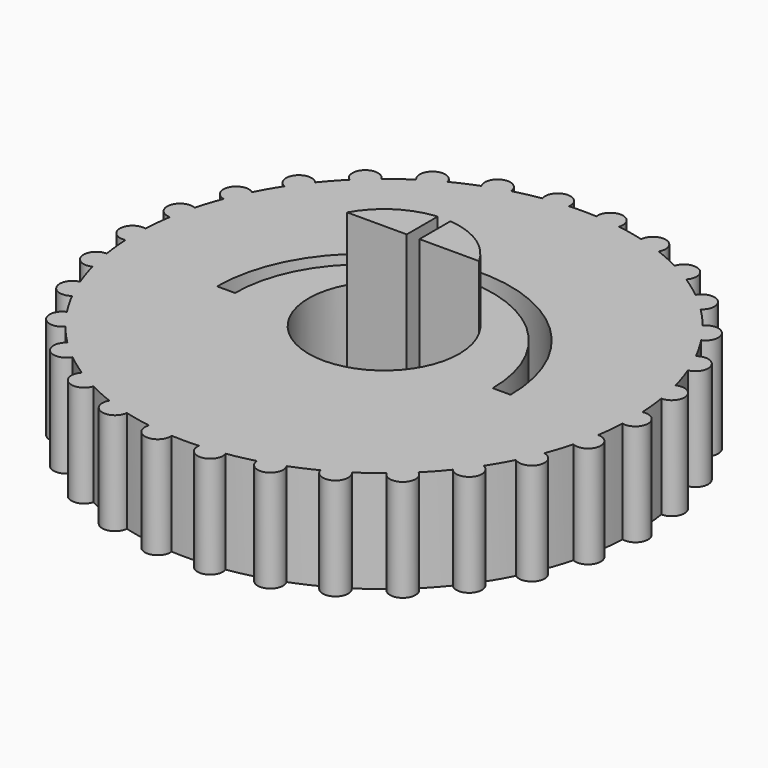
from build123d import *

# Parameters (mm, degrees)
F1_DEPTH      = 4
F3_DEPTH      = 2.5
F3_DEPTH_BACK = 4


with BuildPart() as f1:
    # F0 (on Top) → F1 (new body)
    with BuildSketch(Plane.XY):
        with BuildLine():
            ThreePointArc((-9.7378284576, 0.4870286754), (-10.3509791066, 0), (-9.7378284576, -0.4870286754))
            ThreePointArc((-9.7378284576, -0.4870286754), (-9.6965884798, -1.0191525169), (-9.6262924975, -1.5482224492))
            ThreePointArc((-9.6262924975, -1.5482224492), (-10.1247853783, -2.1520895677), (-9.4237745868, -2.5009943098))
            ThreePointArc((-9.4237745868, -2.5009943098), (-9.2728010339, -3.0129156952), (-9.0940413632, -3.5158088236))
            ThreePointArc((-9.0940413632, -3.5158088236), (-9.4560899449, -4.2101224943), (-8.6978565462, -4.4056544918))
            ThreePointArc((-8.6978565462, -4.4056544918), (-8.4437476869, -4.875), (-8.1643369833, -5.3297374816))
            ThreePointArc((-8.1643369833, -5.3297374816), (-8.3741180056, -6.0841528656), (-7.5918004377, -6.1177664318))
            ThreePointArc((-7.5918004377, -6.1177664318), (-7.2456620484, -6.524023412), (-6.8778119004, -6.9107310368))
            ThreePointArc((-6.8778119004, -6.9107310368), (-6.926156926, -7.6922765617), (-6.1539462205, -7.5625026225))
            ThreePointArc((-6.1539462205, -7.5625026225), (-5.7309062099, -7.8879156952), (-5.290693434, -8.1896924843))
            ThreePointArc((-5.290693434, -8.1896924843), (-5.1754895533, -8.9642108603), (-4.4471350235, -8.6767211597))
            ThreePointArc((-4.4471350235, -8.6767211597), (-3.96568227, -8.907068212), (-3.472346277, -9.1107250717))
            ThreePointArc((-3.472346277, -9.1107250717), (-3.1986284523, -9.8443661293), (-2.5459626864, -9.4117253466))
            ThreePointArc((-2.5459626864, -9.4117253466), (-2.0271389855, -9.5369391072), (-1.5022409256, -9.6335752554))
            ThreePointArc((-1.5022409256, -9.6335752554), (-1.0819719393, -10.29427536), (-0.5335195629, -9.7353919734))
            ThreePointArc((-0.5335195629, -9.7353919734), (0, -9.75), (0.5335195629, -9.7353919734))
            ThreePointArc((0.5335195629, -9.7353919734), (1.0819719393, -10.29427536), (1.5022409256, -9.6335752554))
            ThreePointArc((1.5022409256, -9.6335752554), (2.0271389855, -9.5369391072), (2.5459626864, -9.4117253466))
            ThreePointArc((2.5459626864, -9.4117253466), (3.1986284523, -9.8443661293), (3.472346277, -9.1107250717))
            ThreePointArc((3.472346277, -9.1107250717), (3.96568227, -8.907068212), (4.4471350235, -8.6767211597))
            ThreePointArc((4.4471350235, -8.6767211597), (5.1754895533, -8.9642108603), (5.290693434, -8.1896924843))
            ThreePointArc((5.290693434, -8.1896924843), (5.7309062099, -7.8879156952), (6.1539462205, -7.5625026225))
            ThreePointArc((6.1539462205, -7.5625026225), (6.926156926, -7.6922765617), (6.8778119004, -6.9107310368))
            ThreePointArc((6.8778119004, -6.9107310368), (7.2456620484, -6.524023412), (7.5918004377, -6.1177664318))
            ThreePointArc((7.5918004377, -6.1177664318), (8.3741180056, -6.0841528656), (8.1643369833, -5.3297374816))
            ThreePointArc((8.1643369833, -5.3297374816), (8.4437476869, -4.875), (8.6978565462, -4.4056544918))
            ThreePointArc((8.6978565462, -4.4056544918), (9.4560899449, -4.2101224943), (9.0940413632, -3.5158088236))
            ThreePointArc((9.0940413632, -3.5158088236), (9.2728010339, -3.0129156952), (9.4237745868, -2.5009943098))
            ThreePointArc((9.4237745868, -2.5009943098), (10.1247853783, -2.1520895677), (9.6262924975, -1.5482224492))
            ThreePointArc((9.6262924975, -1.5482224492), (9.6965884798, -1.0191525169), (9.7378284576, -0.4870286754))
            ThreePointArc((9.7378284576, -0.4870286754), (10.3509791066, 0), (9.7378284576, 0.4870286754))
            ThreePointArc((9.7378284576, 0.4870286754), (9.6965884798, 1.0191525169), (9.6262924975, 1.5482224492))
            ThreePointArc((9.6262924975, 1.5482224492), (10.1247853783, 2.1520895677), (9.4237745868, 2.5009943098))
            ThreePointArc((9.4237745868, 2.5009943098), (9.2728010339, 3.0129156952), (9.0940413632, 3.5158088236))
            ThreePointArc((9.0940413632, 3.5158088236), (9.4560899449, 4.2101224943), (8.6978565462, 4.4056544918))
            ThreePointArc((8.6978565462, 4.4056544918), (8.4437476869, 4.875), (8.1643369833, 5.3297374816))
            ThreePointArc((8.1643369833, 5.3297374816), (8.3741180056, 6.0841528656), (7.5918004377, 6.1177664318))
            ThreePointArc((7.5918004377, 6.1177664318), (7.2456620484, 6.524023412), (6.8778119004, 6.9107310368))
            ThreePointArc((6.8778119004, 6.9107310368), (6.926156926, 7.6922765617), (6.1539462205, 7.5625026225))
            ThreePointArc((6.1539462205, 7.5625026225), (5.7309062099, 7.8879156952), (5.290693434, 8.1896924843))
            ThreePointArc((5.290693434, 8.1896924843), (5.1754895533, 8.9642108603), (4.4471350235, 8.6767211597))
            ThreePointArc((4.4471350235, 8.6767211597), (3.96568227, 8.907068212), (3.472346277, 9.1107250717))
            ThreePointArc((3.472346277, 9.1107250717), (3.1986284523, 9.8443661293), (2.5459626864, 9.4117253466))
            ThreePointArc((2.5459626864, 9.4117253466), (2.0271389855, 9.5369391072), (1.5022409256, 9.6335752554))
            ThreePointArc((1.5022409256, 9.6335752554), (1.0819719393, 10.29427536), (0.5335195629, 9.7353919734))
            ThreePointArc((0.5335195629, 9.7353919734), (0, 9.75), (-0.5335195629, 9.7353919734))
            ThreePointArc((-0.5335195629, 9.7353919734), (-1.0819719393, 10.29427536), (-1.5022409256, 9.6335752554))
            ThreePointArc((-1.5022409256, 9.6335752554), (-2.0271389855, 9.5369391072), (-2.5459626864, 9.4117253466))
            ThreePointArc((-2.5459626864, 9.4117253466), (-3.1986284523, 9.8443661293), (-3.472346277, 9.1107250717))
            ThreePointArc((-3.472346277, 9.1107250717), (-3.96568227, 8.907068212), (-4.4471350235, 8.6767211597))
            ThreePointArc((-4.4471350235, 8.6767211597), (-5.1754895533, 8.9642108603), (-5.290693434, 8.1896924843))
            ThreePointArc((-5.290693434, 8.1896924843), (-5.7309062099, 7.8879156952), (-6.1539462205, 7.5625026225))
            ThreePointArc((-6.1539462205, 7.5625026225), (-6.926156926, 7.6922765617), (-6.8778119004, 6.9107310368))
            ThreePointArc((-6.8778119004, 6.9107310368), (-7.2456620484, 6.524023412), (-7.5918004377, 6.1177664318))
            ThreePointArc((-7.5918004377, 6.1177664318), (-8.3741180056, 6.0841528656), (-8.1643369833, 5.3297374816))
            ThreePointArc((-8.1643369833, 5.3297374816), (-8.4437476869, 4.875), (-8.6978565462, 4.4056544918))
            ThreePointArc((-8.6978565462, 4.4056544918), (-9.4560899449, 4.2101224943), (-9.0940413632, 3.5158088236))
            ThreePointArc((-9.0940413632, 3.5158088236), (-9.2728010339, 3.0129156952), (-9.4237745868, 2.5009943098))
            ThreePointArc((-9.4237745868, 2.5009943098), (-10.1247853783, 2.1520895677), (-9.6262924975, 1.5482224492))
            ThreePointArc((-9.6262924975, 1.5482224492), (-9.6965884798, 1.0191525169), (-9.7378284576, 0.4870286754))
        make_face()
        with BuildLine():
            ThreePointArc((2.5825373774, 1.4258333333), (0, -2.95), (-2.5825373774, 1.4258333333))
            Line((-2.5825373774, 1.4258333333), (-0.7497825806, 1.4258333333))
            Line((-0.7497825806, 1.4258333333), (-0.7497825806, 3.8371907801))
            ThreePointArc((-0.7497825806, 3.8371907801), (-3.7460314761, 2.1114599252), (-4.9297596373, -1.1373001565))
            Line((-4.9297596373, -1.1373001565), (-5.6297596373, -1.1373001565))
            ThreePointArc((-5.6297596373, -1.1373001565), (0.1202403627, 4.6126998435), (5.8702403627, -1.1373001565))
            Line((5.8702403627, -1.1373001565), (5.1702403627, -1.1373001565))
            ThreePointArc((5.1702403627, -1.1373001565), (3.9071710592, 2.2036062924), (0.7497825806, 3.8733062535))
            Line((0.7497825806, 3.8733062535), (0.7497825806, 1.4258333333))
            Line((0.7497825806, 1.4258333333), (2.5825373774, 1.4258333333))
        make_face(mode=Mode.SUBTRACT)
    extrude(amount=F1_DEPTH)

    # F2 (on face) → F3 (join, two sides)
    with BuildSketch(Plane.XY.offset(4)) as f3_sk:
        with BuildLine():
            ThreePointArc((-0.7497825806, 2.8531256688), (-1.8125617033, 2.3274707456), (-2.5825373774, 1.4258333333))
            Line((-2.5825373774, 1.4258333333), (-0.7497825806, 1.4258333333))
            Line((-0.7497825806, 1.4258333333), (-0.7497825806, 2.8531256688))
        make_face()
        with BuildLine():
            Line((0.7497825806, 1.4258333333), (2.5825373774, 1.4258333333))
            ThreePointArc((2.5825373774, 1.4258333333), (1.8125617033, 2.3274707456), (0.7497825806, 2.8531256688))
            Line((0.7497825806, 2.8531256688), (0.7497825806, 1.4258333333))
        make_face()
        with BuildLine():
            ThreePointArc((-0.2497825806, 2.9394061751), (-0.5016410164, 2.9070356535), (-0.7497825806, 2.8531256688))
            Line((-0.7497825806, 2.8531256688), (-0.7497825806, 1.4258333333))
            Line((-0.7497825806, 1.4258333333), (-0.2497825806, 1.4258333333))
            Line((-0.2497825806, 1.4258333333), (-0.2497825806, 2.9394061751))
        make_face()
        with BuildLine():
            ThreePointArc((-0.7497825806, 2.8531256688), (-1.8125617033, 2.3274707456), (-2.5825373774, 1.4258333333))
            Line((-2.5825373774, 1.4258333333), (-0.7497825806, 1.4258333333))
            Line((-0.7497825806, 1.4258333333), (-0.7497825806, 2.8531256688))
        make_face()
        with BuildLine():
            Line((0.7497825806, 1.4258333333), (0.7497825806, 2.8531256688))
            ThreePointArc((0.7497825806, 2.8531256688), (0.5016410164, 2.9070356535), (0.2497825806, 2.9394061751))
            Line((0.2497825806, 2.9394061751), (0.2497825806, 1.4258333333))
            Line((0.2497825806, 1.4258333333), (0.7497825806, 1.4258333333))
        make_face()
        with BuildLine():
            Line((0.7497825806, 1.4258333333), (2.5825373774, 1.4258333333))
            ThreePointArc((2.5825373774, 1.4258333333), (1.8125617033, 2.3274707456), (0.7497825806, 2.8531256688))
            Line((0.7497825806, 2.8531256688), (0.7497825806, 1.4258333333))
        make_face()
    extrude(amount=F3_DEPTH)
    extrude(f3_sk.sketch, amount=-F3_DEPTH_BACK)


solid = f1.part
